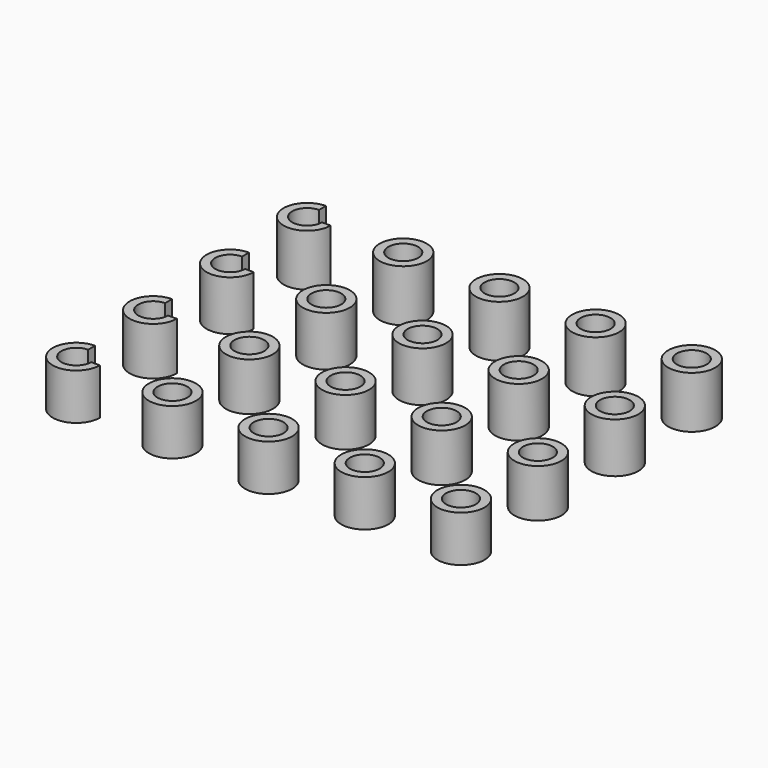
from build123d import *

# Parameters (mm, degrees)
F0_R     = 2.45
F1_DEPTH = 4.8
F2_DEPTH = 5
F3_DEPTH = 5.2
F4_DEPTH = 5.4
F5_D     = 3.1
F5_2_D   = 3.1
F5_3_D   = 3.1
F5_4_D   = 3.1
F5_5_D   = 3.1
F5_6_D   = 3.1
F5_7_D   = 3.1
F5_8_D   = 3.1
F5_9_D   = 3.1
F5_10_D  = 3.1
F5_11_D  = 3.1
F5_12_D  = 3.1
F5_13_D  = 3.1
F5_14_D  = 3.1
F5_15_D  = 3.1
F5_16_D  = 3.1
F5_17_D  = 3.1
F5_18_D  = 3.1
F5_19_D  = 3.1
F5_20_D  = 3.1
F7_DEPTH = 5.401


with BuildPart() as f1:
    # F0 (on Top) → F1 (new body)
    with BuildSketch(Plane.XY):
        Circle(F0_R)
    extrude(amount=F1_DEPTH)

    # F5 (through all)
    with Locations(Plane(origin=(0, 0, 0), x_dir=(1, 0, 0), z_dir=(0, 0, -1))):
        with Locations((0, 0), (10, 0), (20, 0), (30, 0), (30, -10), (20, -10), (10, -10), (0, -10), (0, -20), (0, -30), (10, -30), (10, -20), (20, -30), (20, -20), (30, -20), (30, -30), (40, 0), (40, -10), (40, -20), (40, -30)):
            Hole(F5_D / 2)


with BuildPart() as f1b:
    # F0 (on Top) → F1, piece 2 (new body)
    with BuildSketch(Plane.XY):
        with Locations((10, 0)):
            Circle(F0_R)
    extrude(amount=F1_DEPTH)

    # F5#2 (through all)
    with Locations(Plane(origin=(0, 0, 0), x_dir=(1, 0, 0), z_dir=(0, 0, -1))):
        with Locations((0, 0), (10, 0), (20, 0), (30, 0), (30, -10), (20, -10), (10, -10), (0, -10), (0, -20), (0, -30), (10, -30), (10, -20), (20, -30), (20, -20), (30, -20), (30, -30), (40, 0), (40, -10), (40, -20), (40, -30)):
            Hole(F5_2_D / 2)


with BuildPart() as f1c:
    # F0 (on Top) → F1, piece 3 (new body)
    with BuildSketch(Plane.XY):
        with Locations((20, 0)):
            Circle(F0_R)
    extrude(amount=F1_DEPTH)

    # F5#3 (through all)
    with Locations(Plane(origin=(0, 0, 0), x_dir=(1, 0, 0), z_dir=(0, 0, -1))):
        with Locations((0, 0), (10, 0), (20, 0), (30, 0), (30, -10), (20, -10), (10, -10), (0, -10), (0, -20), (0, -30), (10, -30), (10, -20), (20, -30), (20, -20), (30, -20), (30, -30), (40, 0), (40, -10), (40, -20), (40, -30)):
            Hole(F5_3_D / 2)


with BuildPart() as f1d:
    # F0 (on Top) → F1, piece 4 (new body)
    with BuildSketch(Plane.XY):
        with Locations((30, 0)):
            Circle(F0_R)
    extrude(amount=F1_DEPTH)

    # F5#4 (through all)
    with Locations(Plane(origin=(0, 0, 0), x_dir=(1, 0, 0), z_dir=(0, 0, -1))):
        with Locations((0, 0), (10, 0), (20, 0), (30, 0), (30, -10), (20, -10), (10, -10), (0, -10), (0, -20), (0, -30), (10, -30), (10, -20), (20, -30), (20, -20), (30, -20), (30, -30), (40, 0), (40, -10), (40, -20), (40, -30)):
            Hole(F5_4_D / 2)


with BuildPart() as f1e:
    # F0 (on Top) → F1, piece 5 (new body)
    with BuildSketch(Plane.XY):
        with Locations((40, 0)):
            Circle(F0_R)
    extrude(amount=F1_DEPTH)

    # F5#5 (through all)
    with Locations(Plane(origin=(0, 0, 0), x_dir=(1, 0, 0), z_dir=(0, 0, -1))):
        with Locations((0, 0), (10, 0), (20, 0), (30, 0), (30, -10), (20, -10), (10, -10), (0, -10), (0, -20), (0, -30), (10, -30), (10, -20), (20, -30), (20, -20), (30, -20), (30, -30), (40, 0), (40, -10), (40, -20), (40, -30)):
            Hole(F5_5_D / 2)


with BuildPart() as f2:
    # F0 (on Top) → F2 (new body)
    with BuildSketch(Plane.XY):
        with Locations((0, 10)):
            Circle(F0_R)
    extrude(amount=F2_DEPTH)

    # F5#6 (through all)
    with Locations(Plane(origin=(0, 0, 0), x_dir=(1, 0, 0), z_dir=(0, 0, -1))):
        with Locations((0, 0), (10, 0), (20, 0), (30, 0), (30, -10), (20, -10), (10, -10), (0, -10), (0, -20), (0, -30), (10, -30), (10, -20), (20, -30), (20, -20), (30, -20), (30, -30), (40, 0), (40, -10), (40, -20), (40, -30)):
            Hole(F5_6_D / 2)


with BuildPart() as f2b:
    # F0 (on Top) → F2, piece 2 (new body)
    with BuildSketch(Plane.XY):
        with Locations((10, 10)):
            Circle(F0_R)
    extrude(amount=F2_DEPTH)

    # F5#7 (through all)
    with Locations(Plane(origin=(0, 0, 0), x_dir=(1, 0, 0), z_dir=(0, 0, -1))):
        with Locations((0, 0), (10, 0), (20, 0), (30, 0), (30, -10), (20, -10), (10, -10), (0, -10), (0, -20), (0, -30), (10, -30), (10, -20), (20, -30), (20, -20), (30, -20), (30, -30), (40, 0), (40, -10), (40, -20), (40, -30)):
            Hole(F5_7_D / 2)


with BuildPart() as f2c:
    # F0 (on Top) → F2, piece 3 (new body)
    with BuildSketch(Plane.XY):
        with Locations((20, 10)):
            Circle(F0_R)
    extrude(amount=F2_DEPTH)

    # F5#8 (through all)
    with Locations(Plane(origin=(0, 0, 0), x_dir=(1, 0, 0), z_dir=(0, 0, -1))):
        with Locations((0, 0), (10, 0), (20, 0), (30, 0), (30, -10), (20, -10), (10, -10), (0, -10), (0, -20), (0, -30), (10, -30), (10, -20), (20, -30), (20, -20), (30, -20), (30, -30), (40, 0), (40, -10), (40, -20), (40, -30)):
            Hole(F5_8_D / 2)


with BuildPart() as f2d:
    # F0 (on Top) → F2, piece 4 (new body)
    with BuildSketch(Plane.XY):
        with Locations((30, 10)):
            Circle(F0_R)
    extrude(amount=F2_DEPTH)

    # F5#9 (through all)
    with Locations(Plane(origin=(0, 0, 0), x_dir=(1, 0, 0), z_dir=(0, 0, -1))):
        with Locations((0, 0), (10, 0), (20, 0), (30, 0), (30, -10), (20, -10), (10, -10), (0, -10), (0, -20), (0, -30), (10, -30), (10, -20), (20, -30), (20, -20), (30, -20), (30, -30), (40, 0), (40, -10), (40, -20), (40, -30)):
            Hole(F5_9_D / 2)


with BuildPart() as f2e:
    # F0 (on Top) → F2, piece 5 (new body)
    with BuildSketch(Plane.XY):
        with Locations((40, 10)):
            Circle(F0_R)
    extrude(amount=F2_DEPTH)

    # F5#10 (through all)
    with Locations(Plane(origin=(0, 0, 0), x_dir=(1, 0, 0), z_dir=(0, 0, -1))):
        with Locations((0, 0), (10, 0), (20, 0), (30, 0), (30, -10), (20, -10), (10, -10), (0, -10), (0, -20), (0, -30), (10, -30), (10, -20), (20, -30), (20, -20), (30, -20), (30, -30), (40, 0), (40, -10), (40, -20), (40, -30)):
            Hole(F5_10_D / 2)


with BuildPart() as f3:
    # F0 (on Top) → F3 (new body)
    with BuildSketch(Plane.XY):
        with Locations((0, 20)):
            Circle(F0_R)
    extrude(amount=F3_DEPTH)

    # F5#11 (through all)
    with Locations(Plane(origin=(0, 0, 0), x_dir=(1, 0, 0), z_dir=(0, 0, -1))):
        with Locations((0, 0), (10, 0), (20, 0), (30, 0), (30, -10), (20, -10), (10, -10), (0, -10), (0, -20), (0, -30), (10, -30), (10, -20), (20, -30), (20, -20), (30, -20), (30, -30), (40, 0), (40, -10), (40, -20), (40, -30)):
            Hole(F5_11_D / 2)


with BuildPart() as f3b:
    # F0 (on Top) → F3, piece 2 (new body)
    with BuildSketch(Plane.XY):
        with Locations((10, 20)):
            Circle(F0_R)
    extrude(amount=F3_DEPTH)

    # F5#12 (through all)
    with Locations(Plane(origin=(0, 0, 0), x_dir=(1, 0, 0), z_dir=(0, 0, -1))):
        with Locations((0, 0), (10, 0), (20, 0), (30, 0), (30, -10), (20, -10), (10, -10), (0, -10), (0, -20), (0, -30), (10, -30), (10, -20), (20, -30), (20, -20), (30, -20), (30, -30), (40, 0), (40, -10), (40, -20), (40, -30)):
            Hole(F5_12_D / 2)


with BuildPart() as f3c:
    # F0 (on Top) → F3, piece 3 (new body)
    with BuildSketch(Plane.XY):
        with Locations((20, 20)):
            Circle(F0_R)
    extrude(amount=F3_DEPTH)

    # F5#13 (through all)
    with Locations(Plane(origin=(0, 0, 0), x_dir=(1, 0, 0), z_dir=(0, 0, -1))):
        with Locations((0, 0), (10, 0), (20, 0), (30, 0), (30, -10), (20, -10), (10, -10), (0, -10), (0, -20), (0, -30), (10, -30), (10, -20), (20, -30), (20, -20), (30, -20), (30, -30), (40, 0), (40, -10), (40, -20), (40, -30)):
            Hole(F5_13_D / 2)


with BuildPart() as f3d:
    # F0 (on Top) → F3, piece 4 (new body)
    with BuildSketch(Plane.XY):
        with Locations((30, 20)):
            Circle(F0_R)
    extrude(amount=F3_DEPTH)

    # F5#14 (through all)
    with Locations(Plane(origin=(0, 0, 0), x_dir=(1, 0, 0), z_dir=(0, 0, -1))):
        with Locations((0, 0), (10, 0), (20, 0), (30, 0), (30, -10), (20, -10), (10, -10), (0, -10), (0, -20), (0, -30), (10, -30), (10, -20), (20, -30), (20, -20), (30, -20), (30, -30), (40, 0), (40, -10), (40, -20), (40, -30)):
            Hole(F5_14_D / 2)


with BuildPart() as f3e:
    # F0 (on Top) → F3, piece 5 (new body)
    with BuildSketch(Plane.XY):
        with Locations((40, 20)):
            Circle(F0_R)
    extrude(amount=F3_DEPTH)

    # F5#15 (through all)
    with Locations(Plane(origin=(0, 0, 0), x_dir=(1, 0, 0), z_dir=(0, 0, -1))):
        with Locations((0, 0), (10, 0), (20, 0), (30, 0), (30, -10), (20, -10), (10, -10), (0, -10), (0, -20), (0, -30), (10, -30), (10, -20), (20, -30), (20, -20), (30, -20), (30, -30), (40, 0), (40, -10), (40, -20), (40, -30)):
            Hole(F5_15_D / 2)


with BuildPart() as f4:
    # F0 (on Top) → F4 (new body)
    with BuildSketch(Plane.XY):
        with Locations((0, 30)):
            Circle(F0_R)
    extrude(amount=F4_DEPTH)

    # F5#16 (through all)
    with Locations(Plane(origin=(0, 0, 0), x_dir=(1, 0, 0), z_dir=(0, 0, -1))):
        with Locations((0, 0), (10, 0), (20, 0), (30, 0), (30, -10), (20, -10), (10, -10), (0, -10), (0, -20), (0, -30), (10, -30), (10, -20), (20, -30), (20, -20), (30, -20), (30, -30), (40, 0), (40, -10), (40, -20), (40, -30)):
            Hole(F5_16_D / 2)


with BuildPart() as f4b:
    # F0 (on Top) → F4, piece 2 (new body)
    with BuildSketch(Plane.XY):
        with Locations((10, 30)):
            Circle(F0_R)
    extrude(amount=F4_DEPTH)

    # F5#17 (through all)
    with Locations(Plane(origin=(0, 0, 0), x_dir=(1, 0, 0), z_dir=(0, 0, -1))):
        with Locations((0, 0), (10, 0), (20, 0), (30, 0), (30, -10), (20, -10), (10, -10), (0, -10), (0, -20), (0, -30), (10, -30), (10, -20), (20, -30), (20, -20), (30, -20), (30, -30), (40, 0), (40, -10), (40, -20), (40, -30)):
            Hole(F5_17_D / 2)


with BuildPart() as f4c:
    # F0 (on Top) → F4, piece 3 (new body)
    with BuildSketch(Plane.XY):
        with Locations((20, 30)):
            Circle(F0_R)
    extrude(amount=F4_DEPTH)

    # F5#18 (through all)
    with Locations(Plane(origin=(0, 0, 0), x_dir=(1, 0, 0), z_dir=(0, 0, -1))):
        with Locations((0, 0), (10, 0), (20, 0), (30, 0), (30, -10), (20, -10), (10, -10), (0, -10), (0, -20), (0, -30), (10, -30), (10, -20), (20, -30), (20, -20), (30, -20), (30, -30), (40, 0), (40, -10), (40, -20), (40, -30)):
            Hole(F5_18_D / 2)


with BuildPart() as f4d:
    # F0 (on Top) → F4, piece 4 (new body)
    with BuildSketch(Plane.XY):
        with Locations((30, 30)):
            Circle(F0_R)
    extrude(amount=F4_DEPTH)

    # F5#19 (through all)
    with Locations(Plane(origin=(0, 0, 0), x_dir=(1, 0, 0), z_dir=(0, 0, -1))):
        with Locations((0, 0), (10, 0), (20, 0), (30, 0), (30, -10), (20, -10), (10, -10), (0, -10), (0, -20), (0, -30), (10, -30), (10, -20), (20, -30), (20, -20), (30, -20), (30, -30), (40, 0), (40, -10), (40, -20), (40, -30)):
            Hole(F5_19_D / 2)


with BuildPart() as f4e:
    # F0 (on Top) → F4, piece 5 (new body)
    with BuildSketch(Plane.XY):
        with Locations((40, 30)):
            Circle(F0_R)
    extrude(amount=F4_DEPTH)

    # F5#20 (through all)
    with Locations(Plane(origin=(0, 0, 0), x_dir=(1, 0, 0), z_dir=(0, 0, -1))):
        with Locations((0, 0), (10, 0), (20, 0), (30, 0), (30, -10), (20, -10), (10, -10), (0, -10), (0, -20), (0, -30), (10, -30), (10, -20), (20, -30), (20, -20), (30, -20), (30, -30), (40, 0), (40, -10), (40, -20), (40, -30)):
            Hole(F5_20_D / 2)


with BuildPart() as f7_tool:
    # F6 (on Top) → F7 (new body, through all)
    with BuildSketch(Plane.XY):
        with BuildLine():
            ThreePointArc((2.45, 0), (1.7324116139, 1.7324116139), (0, 2.45))
            Line((0, 2.45), (0, 0))
            Line((0, 0), (2.45, 0))
        make_face()
        with BuildLine():
            ThreePointArc((2.45, 10), (1.7324116139, 11.7324116139), (0, 12.45))
            Line((0, 12.45), (0, 10))
            Line((0, 10), (2.45, 10))
        make_face()
        with BuildLine():
            ThreePointArc((2.45, 20), (1.7324116139, 21.7324116139), (0, 22.45))
            Line((0, 22.45), (0, 20))
            Line((0, 20), (2.45, 20))
        make_face()
        with BuildLine():
            ThreePointArc((2.45, 30), (1.7324116139, 31.7324116139), (0, 32.45))
            Line((0, 32.45), (0, 30))
            Line((0, 30), (2.45, 30))
        make_face()
    extrude(amount=F7_DEPTH)


with BuildPart() as f1_1:
    add(f1.part)

    # F7: cut by f7_tool
    add(f7_tool.part, mode=Mode.SUBTRACT)


with BuildPart() as f2_1:
    add(f2.part)

    # F7: cut by f7_tool
    add(f7_tool.part, mode=Mode.SUBTRACT)


with BuildPart() as f3_1:
    add(f3.part)

    # F7: cut by f7_tool
    add(f7_tool.part, mode=Mode.SUBTRACT)


with BuildPart() as f4_1:
    add(f4.part)

    # F7: cut by f7_tool
    add(f7_tool.part, mode=Mode.SUBTRACT)


solid = Compound([f1b.part, f1c.part, f1d.part, f1e.part, f2b.part, f2c.part, f2d.part, f2e.part, f3b.part, f3c.part, f3d.part, f3e.part, f4b.part, f4c.part, f4d.part, f4e.part, f1_1.part, f2_1.part, f3_1.part, f4_1.part])
